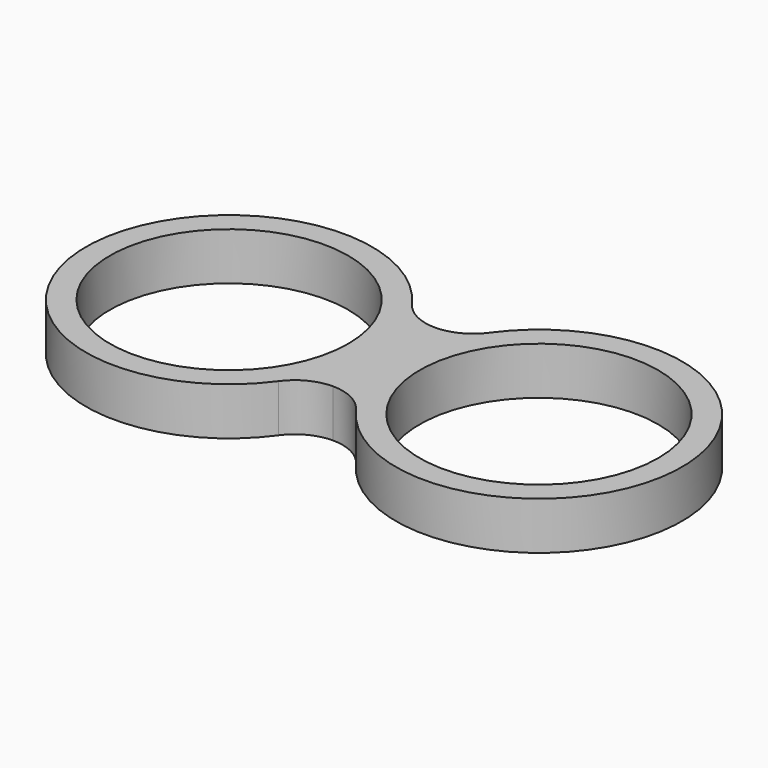
from build123d import *

# Parameters (mm, degrees)
F0_R     = 5
F1_DEPTH = 2


with BuildPart() as f1:
    # F0 (on Top) → F1 (new body)
    with BuildSketch(Plane.XY):
        with BuildLine():
            ThreePointArc((-6.377694, 8.470873), (-7.290122, 8.691133), (-8.001579, 9.303398))
            ThreePointArc((-8.001579, 9.303398), (-18.873232, 5.800971), (-8.001579, 2.298544))
            ThreePointArc((-8.001579, 2.298544), (-7.290122, 2.910809), (-6.377694, 3.131069))
            Line((-6.377694, 3.131069), (-6.373447, 3.131069))
            ThreePointArc((-6.373447, 3.131069), (-5.461019, 2.910809), (-4.749562, 2.298544))
            ThreePointArc((-4.749562, 2.298544), (6.122091, 5.800971), (-4.749562, 9.303398))
            ThreePointArc((-4.749562, 9.303398), (-5.461019, 8.691133), (-6.373447, 8.470873))
            Line((-6.373447, 8.470873), (-6.377694, 8.470873))
        make_face()
        with Locations((-12.873232, 5.800971)):
            Circle(F0_R, mode=Mode.SUBTRACT)
        with Locations((0.122091, 5.800971)):
            Circle(F0_R, mode=Mode.SUBTRACT)
    extrude(amount=F1_DEPTH)


solid = f1.part
